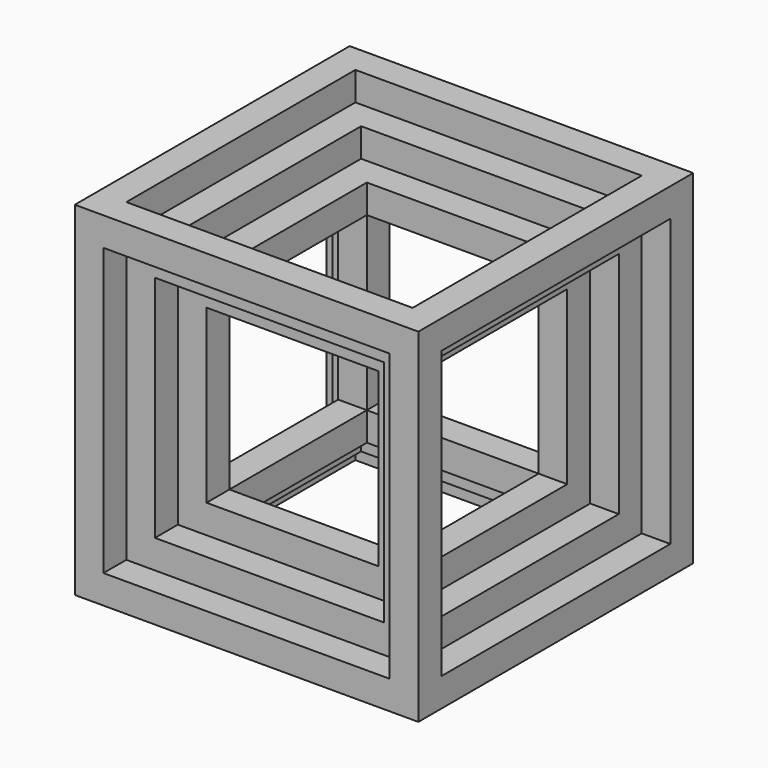
from build123d import *

# Parameters (mm, degrees)
F0_W      = 76.2
F0_H      = 76.2
F0_W_2    = 63.5
F0_H_2    = 63.5
F1_DEPTH  = 6.35
F2_W      = 6.35
F2_H      = 6.35
F3_DEPTH  = 63.5
F4_W      = 76.2
F4_H      = 76.2
F4_W_2    = 63.5
F4_H_2    = 63.5
F5_DEPTH  = 6.35
F6_W      = 63.5
F6_H      = 63.5
F6_W_2    = 50.8
F6_H_2    = 50.8
F7_DEPTH  = 6.35
F8_W      = 6.35
F8_H      = 6.35
F9_DEPTH  = 50.8
F10_W     = 63.5
F10_H     = 63.5
F10_W_2   = 50.8
F10_H_2   = 50.8
F11_DEPTH = 6.35
F12_W     = 50.8
F12_H     = 50.8
F12_W_2   = 38.1
F12_H_2   = 38.1
F13_DEPTH = 6.35
F14_W     = 6.35
F14_H     = 6.35
F15_DEPTH = 38.1
F16_W     = 50.8
F16_H     = 50.8
F16_W_2   = 38.1
F16_H_2   = 38.1
F17_DEPTH = 6.35


with BuildPart() as f1:
    # F0 (on Top) → F1 (new body)
    with BuildSketch(Plane.XY):
        Rectangle(F0_W, F0_H)
        Rectangle(F0_W_2, F0_H_2, mode=Mode.SUBTRACT)
    extrude(amount=F1_DEPTH)

    # F2 (on face) → F3 (join)
    with BuildSketch(Plane.XY.offset(6.35)):
        with Locations((34.925, 34.925)):
            Rectangle(F2_W, F2_H)
        with Locations((-34.925, 34.925)):
            Rectangle(F2_W, F2_H)
        with Locations((34.925, -34.925)):
            Rectangle(F2_W, F2_H)
        with Locations((-34.925, -34.925)):
            Rectangle(F2_W, F2_H)
    extrude(amount=F3_DEPTH)

    # F4 (on face) → F5 (join)
    with BuildSketch(Plane.XY.offset(69.85)):
        Rectangle(F4_W, F4_H)
        Rectangle(F4_W_2, F4_H_2, mode=Mode.SUBTRACT)
    extrude(amount=F5_DEPTH)



with BuildPart() as f7:
    # F6 (on face) → F7 (new body)
    with BuildSketch(Plane.XY.offset(6.35)):
        Rectangle(F6_W, F6_H)
        Rectangle(F6_W_2, F6_H_2, mode=Mode.SUBTRACT)
    extrude(amount=F7_DEPTH)


with BuildPart() as f1_1:
    add(f1.part)

    add(f7.part)  # F9 merges F7
    # F8 (on face) → F9 (join)
    with BuildSketch(Plane.XY.offset(12.7)):
        with Locations((-28.575, 28.575)):
            Rectangle(F8_W, F8_H)
        with Locations((28.575, 28.575)):
            Rectangle(F8_W, F8_H)
        with Locations((28.575, -28.575)):
            Rectangle(F8_W, F8_H)
        with Locations((-28.575, -28.575)):
            Rectangle(F8_W, F8_H)
    extrude(amount=F9_DEPTH)

    # F10 (on face) → F11 (join)
    with BuildSketch(Plane.XY.offset(63.5)):
        Rectangle(F10_W, F10_H)
        Rectangle(F10_W_2, F10_H_2, mode=Mode.SUBTRACT)
    extrude(amount=F11_DEPTH)



with BuildPart() as f13:
    # F12 (on face) → F13 (new body)
    with BuildSketch(Plane.XY.offset(12.7)):
        Rectangle(F12_W, F12_H)
        Rectangle(F12_W_2, F12_H_2, mode=Mode.SUBTRACT)
    extrude(amount=F13_DEPTH)


with BuildPart() as f1_2:
    add(f1_1.part)

    add(f13.part)  # F15 merges F13
    # F14 (on face) → F15 (join)
    with BuildSketch(Plane.XY.offset(19.05)):
        with Locations((-22.225, 22.225)):
            Rectangle(F14_W, F14_H)
        with Locations((22.225, 22.225)):
            Rectangle(F14_W, F14_H)
        with Locations((22.225, -22.225)):
            Rectangle(F14_W, F14_H)
        with Locations((-22.225, -22.225)):
            Rectangle(F14_W, F14_H)
    extrude(amount=F15_DEPTH)

    # F16 (on face) → F17 (join)
    with BuildSketch(Plane.XY.offset(57.15)):
        Rectangle(F16_W, F16_H)
        Rectangle(F16_W_2, F16_H_2, mode=Mode.SUBTRACT)
    extrude(amount=F17_DEPTH)


solid = f1_2.part
